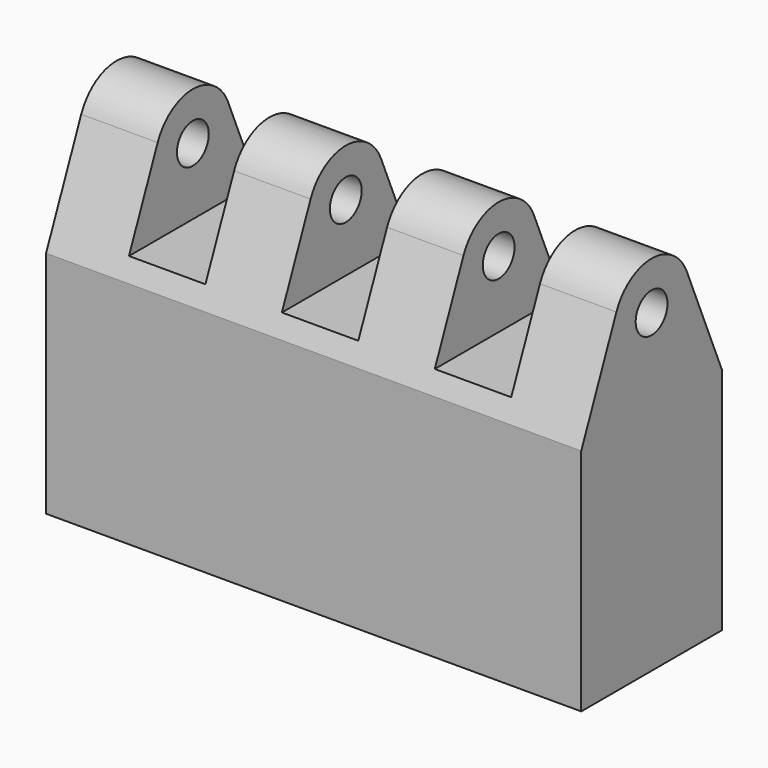
from build123d import *

# Parameters (mm, degrees)
F0_W     = 88.9
F0_H     = 29.21
F0_W_2   = 82.55
F0_H_2   = 22.86
F1_DEPTH = 38.1
F2_W     = 9.525
F2_H     = 15.875
F3_DEPTH = 25.4
F5_DEPTH = 88.9
F6_R     = 3.302
F7_DEPTH = 88.901
F8_W     = 12.7
F8_H     = 22.225
F9_DEPTH = 29.211


with BuildPart() as f1:
    # F0 (on Top) → F1 (new body)
    with BuildSketch(Plane.XY):
        Rectangle(F0_W, F0_H)
        Rectangle(F0_W_2, F0_H_2, mode=Mode.SUBTRACT)
    extrude(amount=F1_DEPTH)

    # F2 (on face) → F3 (cut)
    with BuildSketch(Plane(origin=(-44.45, 0, 0), x_dir=(0, -1, 0), z_dir=(-1, 0, 0))):
        with Locations((0, 7.9375)):
            Rectangle(F2_W, F2_H)
    extrude(amount=-F3_DEPTH, mode=Mode.SUBTRACT)

    # F4 (on face) → F5 (join, through all)
    with BuildSketch(Plane.YZ.offset(44.45)):
        with BuildLine():
            Line((14.605, 38.1), (7.304389, 55.448618))
            ThreePointArc((7.304389, 55.448618), (0, 60.2996), (-7.304389, 55.448618))
            Line((-7.304389, 55.448618), (-14.605, 38.1))
            Line((-14.605, 38.1), (14.605, 38.1))
        make_face()
    extrude(amount=-F5_DEPTH)

    # F6 (on face) → F7 (cut, through all)
    with BuildSketch(Plane.YZ.offset(44.45)):
        with Locations((0, 52.3748)):
            Circle(F6_R)
    extrude(amount=-F7_DEPTH, mode=Mode.SUBTRACT)

    # F8 (on face) → F9 (cut, through all)
    with BuildSketch(Plane.XZ.offset(14.605)):
        with Locations((-25.4, 52.3875)):
            Rectangle(F8_W, F8_H)
        with Locations((0, 52.3875)):
            Rectangle(F8_W, F8_H)
        with Locations((25.4, 52.3875)):
            Rectangle(F8_W, F8_H)
    extrude(amount=-F9_DEPTH, mode=Mode.SUBTRACT)


solid = f1.part
